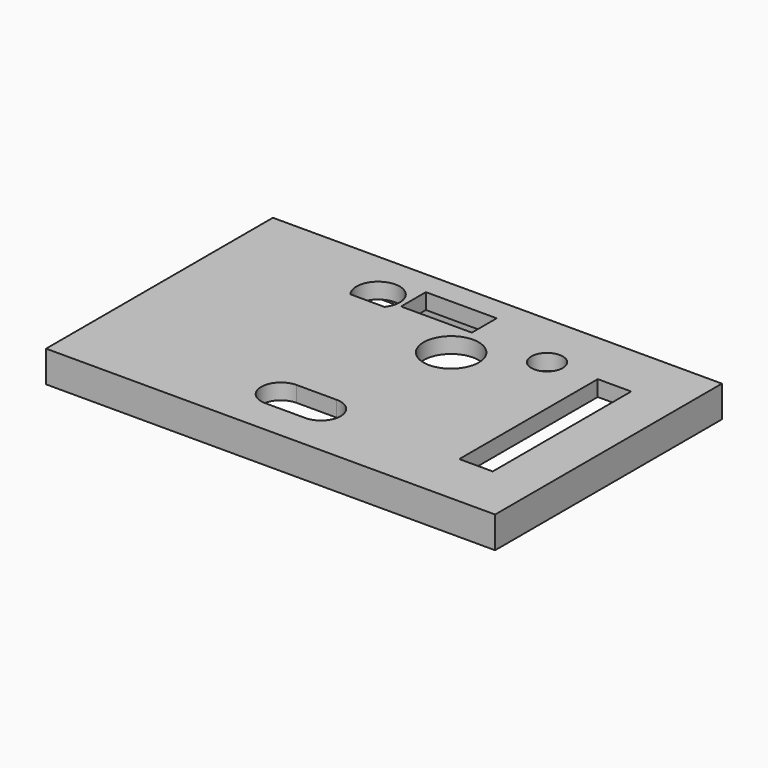
from build123d import *

# Parameters (mm, degrees)
SKETCH004_W      = 57.0675
SKETCH004_H      = 36.03
EXTRUDE004_DEPTH = 2
SKETCH005_W      = 57.0675
SKETCH005_H      = 36.03
SKETCH005_R      = 3.5
SKETCH005_R_2    = 2
SKETCH005_W_2    = 9
SKETCH005_H_2    = 3.9474
SKETCH005_W_3    = 4.25
SKETCH005_H_3    = 22
EXTRUDE005_DEPTH = 2


with BuildPart() as obj1:
    # Sketch004 → Extrude004 (new body)
    with BuildSketch(Plane.XY.offset(9)):
        with Locations((15.9391, 12.4324)):
            Rectangle(SKETCH004_W, SKETCH004_H)
        Polygon((-11.59465, 29.4474), (43.47285, 29.4474), (43.47285, -4.5826), (-11.59465, -4.5826), (-11.59465, 5.4324), (-10.59465, 5.4324), (-10.59465, 19.4324), (-11.59465, 19.4324), align=None, mode=Mode.SUBTRACT)
    extrude(amount=EXTRUDE004_DEPTH)


with BuildPart() as tampa002:
    # Sketch005 → Extrude005 (new body)
    with BuildSketch(Plane.XY.offset(11)):
        with Locations((15.9391, 12.4324)):
            Rectangle(SKETCH005_W, SKETCH005_H)
        with Locations((19.3, 18.9)):
            Circle(SKETCH005_R, mode=Mode.SUBTRACT)
        with Locations((28.05086, 23.2)):
            Circle(SKETCH005_R_2, mode=Mode.SUBTRACT)
        with BuildLine():
            ThreePointArc((8.018237, 22.4), (5.85664, 26.85), (3.695043, 22.4))
            Line((3.695043, 22.4), (8.018237, 22.4))
        make_face(mode=Mode.SUBTRACT)
        with Locations((13.75, 25.4737)):
            Rectangle(SKETCH005_W_2, SKETCH005_H_2, mode=Mode.SUBTRACT)
        with Locations((36.375, 12.5)):
            Rectangle(SKETCH005_W_3, SKETCH005_H_3, mode=Mode.SUBTRACT)
        with BuildLine():
            ThreePointArc((11.7, 3.85), (9.2, 1.35), (11.7, -1.15))
            Line((11.7, -1.15), (16.8, -1.15))
            ThreePointArc((16.8, -1.15), (19.3, 1.35), (16.8, 3.85))
            Line((11.7, 3.85), (16.8, 3.85))
        make_face(mode=Mode.SUBTRACT)
    extrude(amount=EXTRUDE005_DEPTH)

    # Fusion001: union obj1
    add(obj1.part)


solid = tampa002.part
